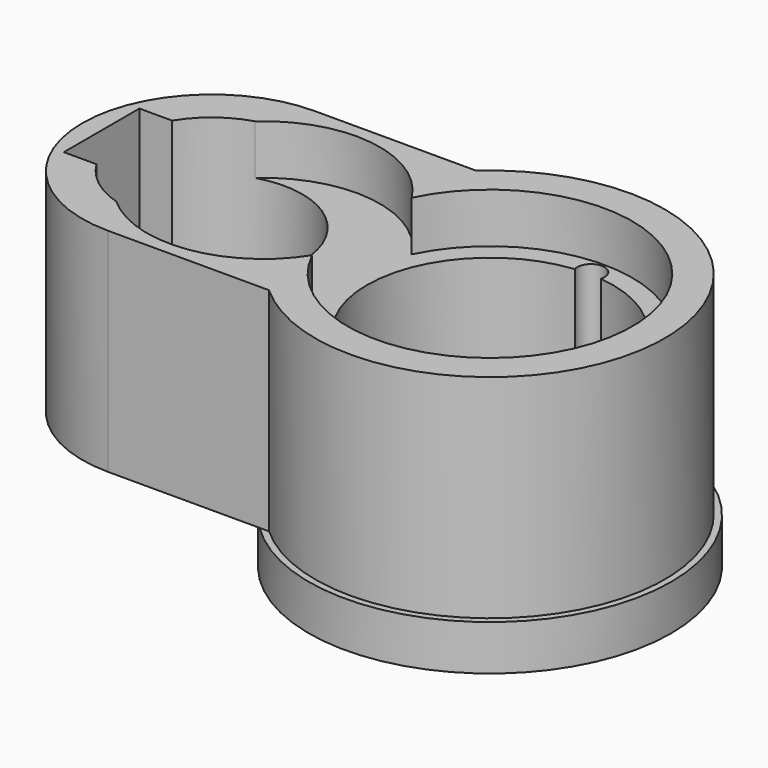
from build123d import *

# Parameters (mm, degrees)
F1_DEPTH  = 32.8
F2_R      = 22
F3_DEPTH  = 7.7
F4_R      = 19
F5_DEPTH  = 14
F7_DEPTH  = 29.8
F8_R      = 18
F9_DEPTH  = 7.7
F10_R     = 28
F11_DEPTH = 7
F12_R     = 2.1
F13_DEPTH = 39.801
F14_DEPTH = 11.1


with BuildPart() as f1:
    # F0 (on Top) → F1 (new body)
    with BuildSketch(Plane.XY):
        with BuildLine():
            Line((-43, -20), (-18.1383571472, -20))
            ThreePointArc((-18.1383571472, -20), (27, 0), (-18.1383571472, 20))
            Line((-18.1383571472, 20), (-43, 20))
            ThreePointArc((-43, 20), (-63, 0), (-43, -20))
        make_face()
    extrude(amount=F1_DEPTH)

    # F2 (on face) → F3 (cut)
    with BuildSketch(Plane.XY.offset(32.8)):
        Circle(F2_R)
    extrude(amount=-F3_DEPTH, mode=Mode.SUBTRACT)

    # F4 (on face) → F5 (cut)
    with BuildSketch(Plane.XY.offset(25.1)):
        Circle(F4_R)
    extrude(amount=-F5_DEPTH, mode=Mode.SUBTRACT)

    # F6 (on face) → F7 (cut)
    with BuildSketch(Plane.XY.offset(32.8)):
        with BuildLine():
            Line((-60, -7.3), (-54.9461290802, -7.3))
            ThreePointArc((-54.9461290802, -7.3), (-29, 0), (-54.9461290802, 7.3))
            Line((-54.9461290802, 7.3), (-60, 7.3))
            Line((-60, 7.3), (-60, -7.3))
        make_face()
    extrude(amount=-F7_DEPTH, mode=Mode.SUBTRACT)

    # F8 (on face) → F9 (cut)
    with BuildSketch(Plane.XY.offset(32.8)):
        with Locations((-35, 0)):
            Circle(F8_R)
    extrude(amount=-F9_DEPTH, mode=Mode.SUBTRACT)

    # F10 (on face) → F11 (join)
    with BuildSketch(Plane(origin=(0, 0, 0), x_dir=(1, 0, 0), z_dir=(0, 0, -1))):
        Circle(F10_R)
        with BuildLine():
            ThreePointArc((0.8760965756, 5.5), (17, 0), (0.8760965756, -5.5))
            Line((0.8760965756, -5.5), (-11.4999995261, -5.5))
            ThreePointArc((-11.4999995261, -5.5), (-17, 0), (-11.4999995261, 5.5))
            Line((-11.4999995261, 5.5), (0.8760965756, 5.5))
        make_face(mode=Mode.SUBTRACT)
    extrude(amount=F11_DEPTH)

    # F12 (on face) → F13 (cut, through all)
    with BuildSketch(Plane(origin=(0, 0, -7), x_dir=(1, 0, 0), z_dir=(0, 0, -1))):
        with Locations((0, -19.5)):
            Circle(F12_R)
        with Locations((0, 19.5)):
            Circle(F12_R)
    extrude(amount=-F13_DEPTH, mode=Mode.SUBTRACT)

    # F14 (cut, through all): a face of the model
    f14_faces = [f1.faces().sort_by_distance(p)[0] for p in [
        (1.5412658512, 0, 0),
    ]]
    extrude(f14_faces, amount=-F14_DEPTH, mode=Mode.SUBTRACT)


solid = f1.part
